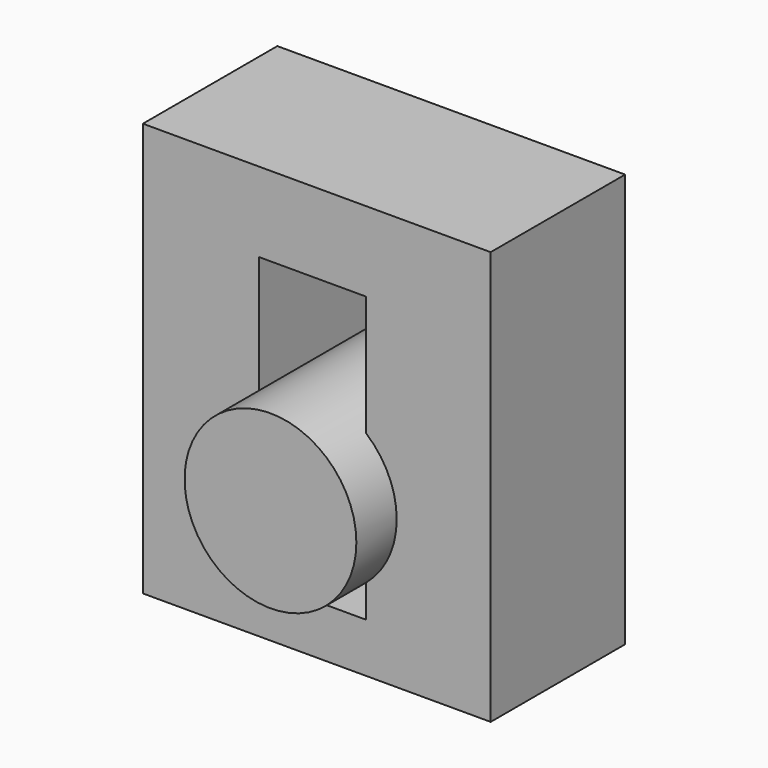
from build123d import *

# Parameters (mm, degrees)
F0_W     = 51.73913
F0_H     = 61.52118
F0_W_2   = 15.978261
F0_H_2   = 42.31841
F1_DEPTH = 12.5
F2_R     = 12.777196
F3_DEPTH = 20


with BuildPart() as f1:
    # F0 (on Front) → F1 (new body, symmetric)
    with BuildSketch(Plane.XZ):
        with Locations((0.887681, 30.76059)):
            Rectangle(F0_W, F0_H)
        with Locations((0.253623, 28.514278)):
            Rectangle(F0_W_2, F0_H_2, mode=Mode.SUBTRACT)
    extrude(amount=F1_DEPTH, both=True)

    # F2 (on Front) → F3 (join, symmetric)
    with BuildSketch(Plane.XZ):
        with Locations((0, 21.996608)):
            Circle(F2_R)
    extrude(amount=F3_DEPTH, both=True)


solid = f1.part
